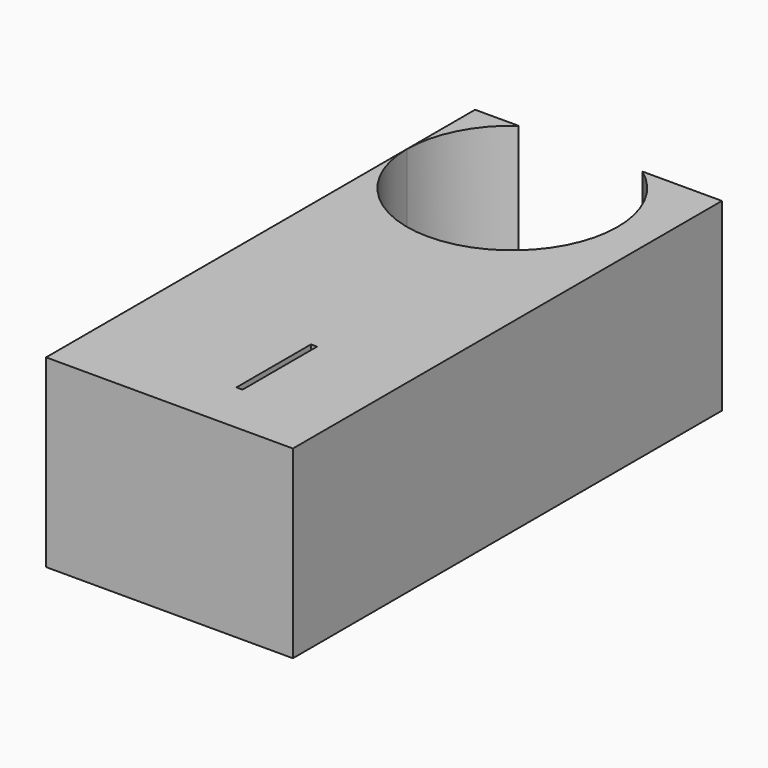
from build123d import *

# Parameters (mm, degrees)
F0_W     = 94.289586
F0_H     = 204.868033
F0_W_2   = 2.331507
F0_H_2   = 35.604
F1_DEPTH = 70.548587
F3_DEPTH = 90.976335


with BuildPart() as f1:
    # F0 (on Top) → F1 (new body)
    with BuildSketch(Plane.XY):
        with Locations((47.144793, -184.631728)):
            Rectangle(F0_W, F0_H)
        with Locations((57.636564, -248.973668)):
            Rectangle(F0_W_2, F0_H_2, mode=Mode.SUBTRACT)
    extrude(amount=F1_DEPTH)

    # F2 (on face) → F3 (cut)
    with BuildSketch(Plane.XY.offset(70.548587)):
        with BuildLine():
            ThreePointArc((0, -114.765167), (40.254056, -155.019224), (80.508113, -114.765167))
            ThreePointArc((80.508113, -114.765167), (76.120204, -96.489268), (63.91309, -82.197711))
            Line((63.91309, -82.197711), (16.595023, -82.197711))
            ThreePointArc((16.595023, -82.197711), (4.387909, -96.489268), (0, -114.765167))
        make_face()
    extrude(amount=-F3_DEPTH, mode=Mode.SUBTRACT)


solid = f1.part
